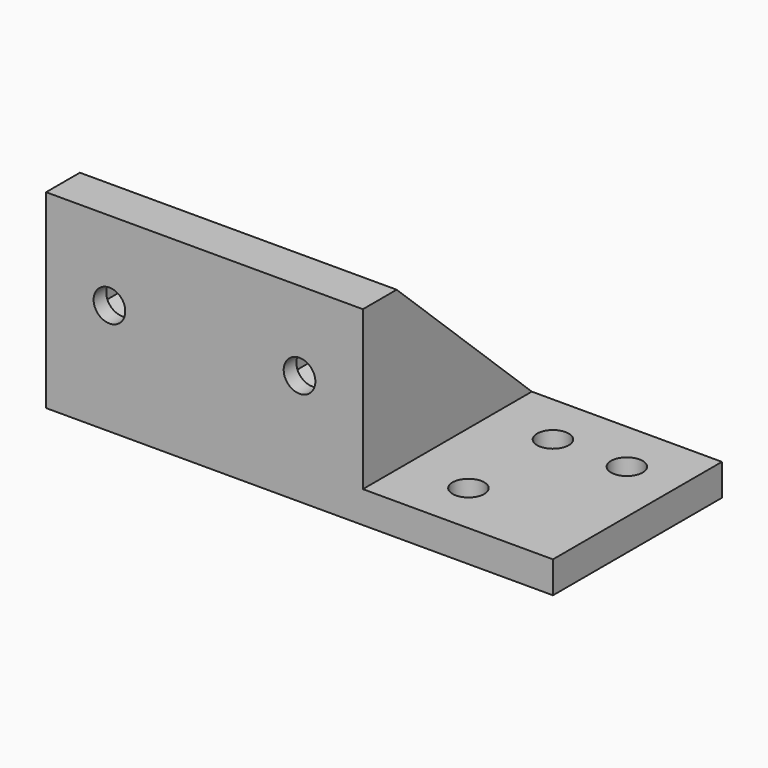
from build123d import *

# Parameters (mm, degrees)
F0_W       = 48
F0_H       = 20
F1_DEPTH   = 3
F2_W       = 30
F2_H       = 1.5
F3_DEPTH   = 15
F6_D       = 3
F6_ON_F5_D = 3
F7_W       = 30
F7_H       = 15
F8_DEPTH   = 2.5
F11_DEPTH  = 1
F12_DEPTH  = 1


with BuildPart() as f1:
    # F0 (on Top) → F1 (new body)
    with BuildSketch(Plane.XY):
        Rectangle(F0_W, F0_H)
    extrude(amount=F1_DEPTH)

    # F2 (on face) → F3 (join)
    with BuildSketch(Plane.XY.offset(3)):
        with Locations((-9, -9.25)):
            Rectangle(F2_W, F2_H)
    extrude(amount=F3_DEPTH)

    # F6 (through all)
    with Locations(Plane.XZ.offset(10)):
        with Locations((0, 10.5), (-18, 10.5)):
            Hole(F6_D / 2)

    # F6 on F5 (through all)
    with Locations(Plane.XY.offset(3)):
        with Locations((19, 5), (12, 5), (12, -5)):
            Hole(F6_ON_F5_D / 2)

    # F7 (on face) → F8 (join)
    with BuildSketch(Plane(origin=(0, -8.5, 0), x_dir=(-1, 0, 0), z_dir=(0, 1, 0))):
        with Locations((9, 10.5)):
            Rectangle(F7_W, F7_H)
        Polygon((2.4, 11.8856406461), (2.4, 9.1143593539), (0, 7.7287187079), (-2.4, 9.1143593539), (-2.4, 11.8856406461), (0, 13.2712812921), align=None, mode=Mode.SUBTRACT)
        Polygon((20.4, 9.1143593539), (18, 7.7287187079), (15.6, 9.1143593539), (15.6, 11.8856406461), (18, 13.2712812921), (20.4, 11.8856406461), align=None, mode=Mode.SUBTRACT)
    extrude(amount=F8_DEPTH)

    # F9 (on face) → F11 (join)
    with BuildSketch(Plane(origin=(-24, 0, 0), x_dir=(0, -1, 0), z_dir=(-1, 0, 0))):
        Polygon((6, 18), (-10, 3), (6, 3), align=None)
    extrude(amount=-F11_DEPTH)

    # F10 (on face) → F12 (join)
    with BuildSketch(Plane.YZ.offset(6)):
        Polygon((10, 3), (-6, 18), (-6, 3), align=None)
    extrude(amount=-F12_DEPTH)


solid = f1.part
